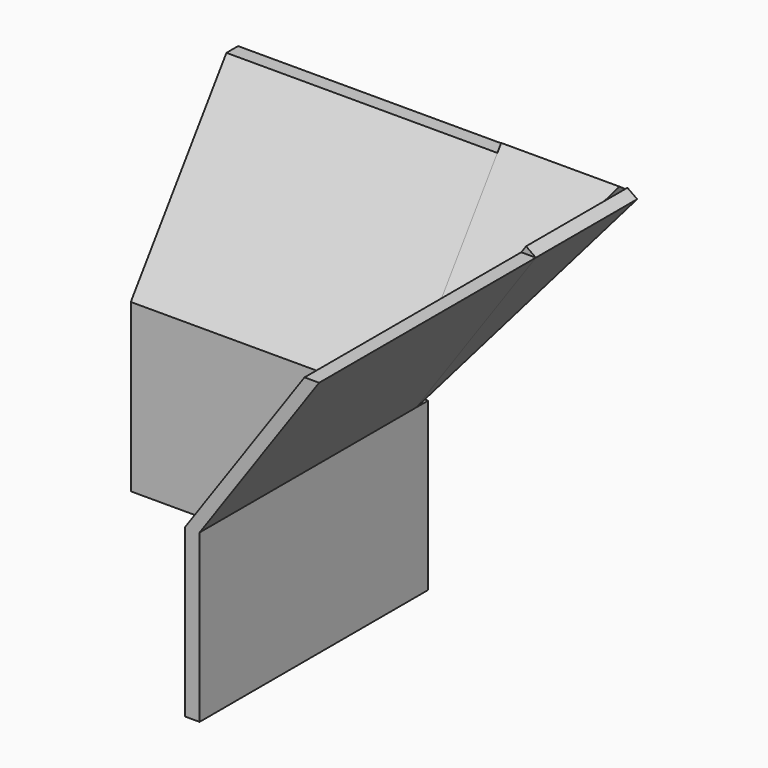
from build123d import *

# Parameters (mm, degrees)
F1_DEPTH = 80
F3_DEPTH = 130
F5_DEPTH = 130
F7_DEPTH = 5.734064
F9_DEPTH = 5.734064


with BuildPart() as f1:
    # F0 (on Top) → F1 (new body)
    with BuildSketch(Plane.XY):
        Polygon((-130, 7), (-130, 0), (0, 0), (0, -130), (7, -130), (7, 7), align=None)
    extrude(amount=-F1_DEPTH)

    # F2 (on face) → F3 (join)
    with BuildSketch(Plane.XZ.offset(130)):
        Polygon((57.357644, 81.915204), (0, 0), (7, 0), (64.357644, 81.915204), align=None)
    extrude(amount=-F3_DEPTH)

    # F4 (on face) → F5 (join)
    with BuildSketch(Plane(origin=(-130, 0, 0), x_dir=(0, -1, 0), z_dir=(-1, 0, 0))):
        Polygon((-7, 0), (0, 0), (-57.357644, 81.915204), (-64.357644, 81.915204), align=None)
    extrude(amount=-F5_DEPTH)

    # F6 (on face) → F7 (join, through all)
    with BuildSketch(Plane(origin=(4.697071, 0, -3.288924), x_dir=(0, 1, 0), z_dir=(0.819152, 0, -0.573576))):
        Polygon((60.783785, 104.015035), (0, 104.015035), (0, 4.015035), align=None)
    extrude(amount=-F7_DEPTH)

    # F8 (on face) → F9 (join, through all)
    with BuildSketch(Plane(origin=(0, 4.697071, -3.288924), x_dir=(-1, 0, 0), z_dir=(0, 0.819152, -0.573576))):
        Polygon((0, 4.015035), (0, 104.015035), (-56.736283, 104.015035), align=None)
    extrude(amount=-F9_DEPTH)


solid = f1.part
